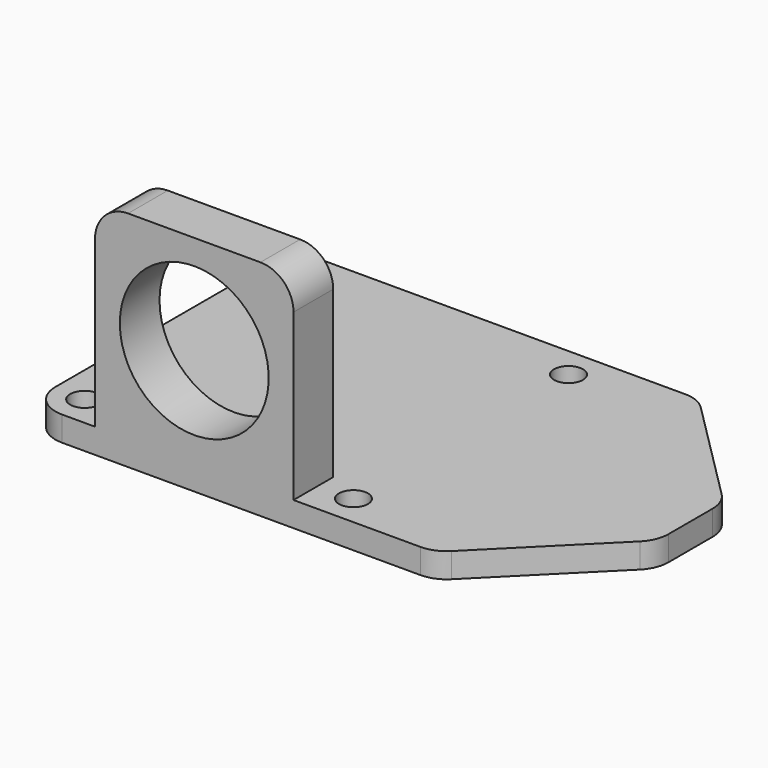
from build123d import *

# Parameters (mm, degrees)
F0_W     = 40
F0_H     = 40
F0_R     = 1.75
F1_DEPTH = 3
F2_W     = 24
F2_H     = 6
F3_DEPTH = 24
F4_R     = 9
F5_DEPTH = 25
F6_DEPTH = 24
F7_SIZE  = 15
F8_R     = 4


with BuildPart() as f1:
    # F0 (on Top) → F1 (new body)
    with BuildSketch(Plane.XY):
        Rectangle(F0_W, F0_H)
        with Locations((-16.25, -16.25)):
            Circle(F0_R, mode=Mode.SUBTRACT)
        with Locations((16.25, -16.25)):
            Circle(F0_R, mode=Mode.SUBTRACT)
        with Locations((-16.25, 16.25)):
            Circle(F0_R, mode=Mode.SUBTRACT)
        with Locations((16.25, 16.25)):
            Circle(F0_R, mode=Mode.SUBTRACT)
    extrude(amount=F1_DEPTH)

    # F2 (on face) → F3 (join)
    with BuildSketch(Plane.XY.offset(3)):
        with Locations((0, -17)):
            Rectangle(F2_W, F2_H)
    extrude(amount=F3_DEPTH)

    # F4 (on face) → F5 (cut)
    with BuildSketch(Plane(origin=(0, -14, 0), x_dir=(-1, 0, 0), z_dir=(0, 1, 0))):
        with Locations((0, 15)):
            Circle(F4_R)
    extrude(amount=-F5_DEPTH, mode=Mode.SUBTRACT)

    # F6 (add): a face of the model
    f6_faces = [f1.faces().sort_by_distance(p)[0] for p in [
        (20, 0, 1.5),
    ]]
    extrude(f6_faces, amount=F6_DEPTH)

    # F7
    f7_edges = [f1.edges().sort_by_distance(p)[0] for p in [
        (44, 20, 1.5),
        (44, -20, 1.5),
    ]]
    chamfer(f7_edges, length=F7_SIZE)

    # F8
    f8_edges = [f1.edges().sort_by_distance(p)[0] for p in [
        (29, 20, 1.5),
        (44, 5, 1.5),
        (-20, 20, 1.5),
        (-20, -20, 1.5),
        (29, -20, 1.5),
        (44, -5, 1.5),
        (-12, -17, 27),
        (12, -17, 27),
    ]]
    fillet(f8_edges, radius=F8_R)


solid = f1.part
